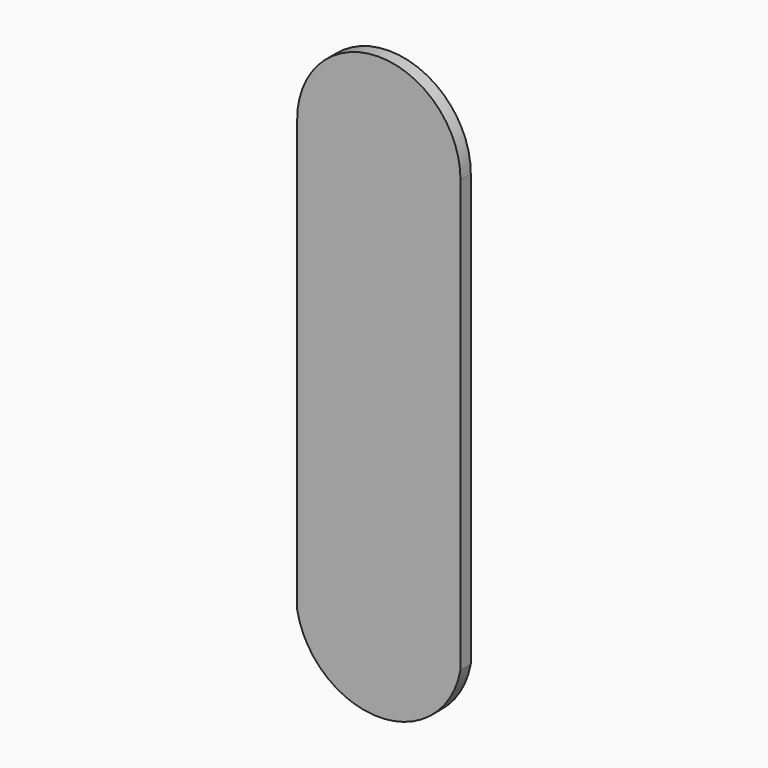
from build123d import *

# Parameters (mm, degrees)
F1_DEPTH = 2.0066


with BuildPart() as f1:
    # F0 (on Front) → F1 (new body)
    with BuildSketch(Plane.XZ):
        with BuildLine():
            Line((-12.7, 33.528), (-12.7, 0))
            Line((-12.7, 0), (-12.7, -33.538841))
            ThreePointArc((-12.7, -33.538841), (0, -44.125577), (12.7, -33.538841))
            Line((12.7, -33.538841), (12.7, 0))
            Line((12.7, 0), (12.7, 33.528))
            ThreePointArc((12.7, 33.528), (0, 46.298423), (-12.7, 33.528))
        make_face()
    extrude(amount=F1_DEPTH)


solid = f1.part
